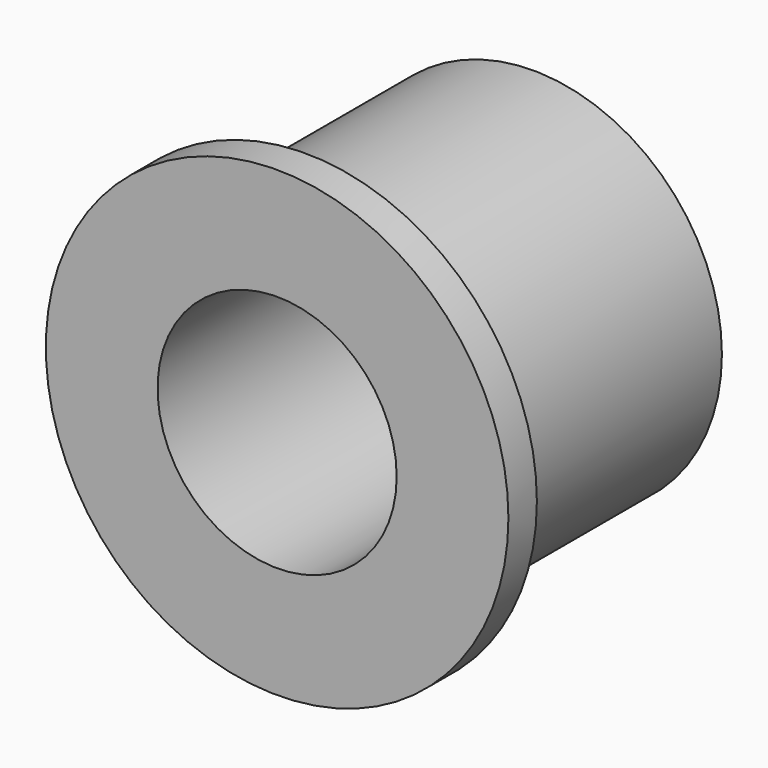
from build123d import *

# Parameters (mm, degrees)
F0_R     = 16.8275
F0_R_2   = 10.668
F1_DEPTH = 28.575
F2_START = 25.4
F0_R_3   = 20.6375
F2_DEPTH = 3.175


with BuildPart() as f1:
    # F0 (on Front) → F1 (new body)
    with BuildSketch(Plane.XZ):
        Circle(F0_R)
        Circle(F0_R_2, mode=Mode.SUBTRACT)
    extrude(amount=F1_DEPTH)

    # F0 (on Front) → F2 (join)
    with BuildSketch(Plane.XZ.offset(F2_START)):
        Circle(F0_R_3)
        Circle(F0_R, mode=Mode.SUBTRACT)
    extrude(amount=F2_DEPTH)


solid = f1.part
